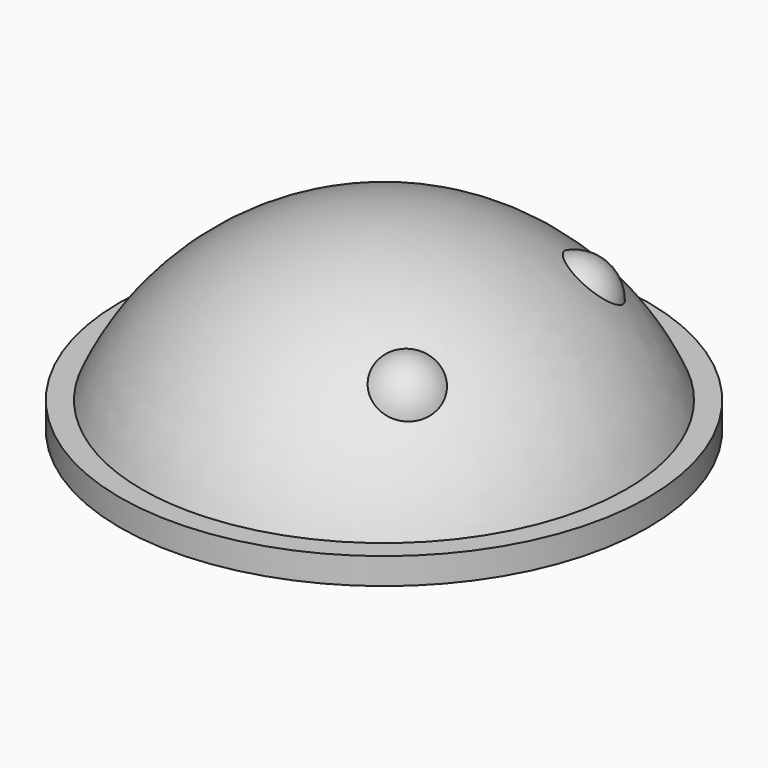
from build123d import *

# Parameters (mm, degrees)
CYLINDER_R     = 10
CYLINDER_DEPTH = 1


with BuildPart() as obj1:
    # Sphere002 → Sphere002 (revolve)
    with BuildSketch(Plane(origin=(4, 4, 4), x_dir=(1, 0, 0), z_dir=(0, -1, 0))):
        with BuildLine():
            ThreePointArc((0, -1.5), (1.5, 0), (0, 1.5))
            Line((0, 1.5), (0, -1.5))
        make_face()
    revolve(axis=Axis((4, 4, 4), (0, 0, 1)))


with BuildPart() as ojos:
    # Sphere001 → Sphere001 (revolve)
    with BuildSketch(Plane(origin=(4, -4, 4), x_dir=(1, 0, 0), z_dir=(0, -1, 0))):
        with BuildLine():
            ThreePointArc((0, -1.5), (1.5, 0), (0, 1.5))
            Line((0, 1.5), (0, -1.5))
        make_face()
    revolve(axis=Axis((4, -4, 4), (0, 0, 1)))

    # Fusion001: union obj1
    add(obj1.part)


with BuildPart() as obj2:
    # Sphere → Sphere (revolve)
    with BuildSketch(Plane(origin=(0, 0, -3), x_dir=(1, 0, 0), z_dir=(0, -1, 0))):
        with BuildLine():
            ThreePointArc((9.396926, 3.420201), (5.735764, 8.19152), (0, 10))
            Line((0, 10), (0, 3.420201))
            Line((0, 3.420201), (9.396926, 3.420201))
        make_face()
    revolve(axis=Axis((0, 0, -3), (0, 0, 1)))


with BuildPart() as cabeza_android:
    # Cylinder → Cylinder (new body)
    with BuildSketch(Plane.XY):
        Circle(CYLINDER_R)
    extrude(amount=CYLINDER_DEPTH)

    # Fusion: union obj2
    add(obj2.part)

    # Fusion002: union Ojos
    add(ojos.part)


solid = cabeza_android.part
